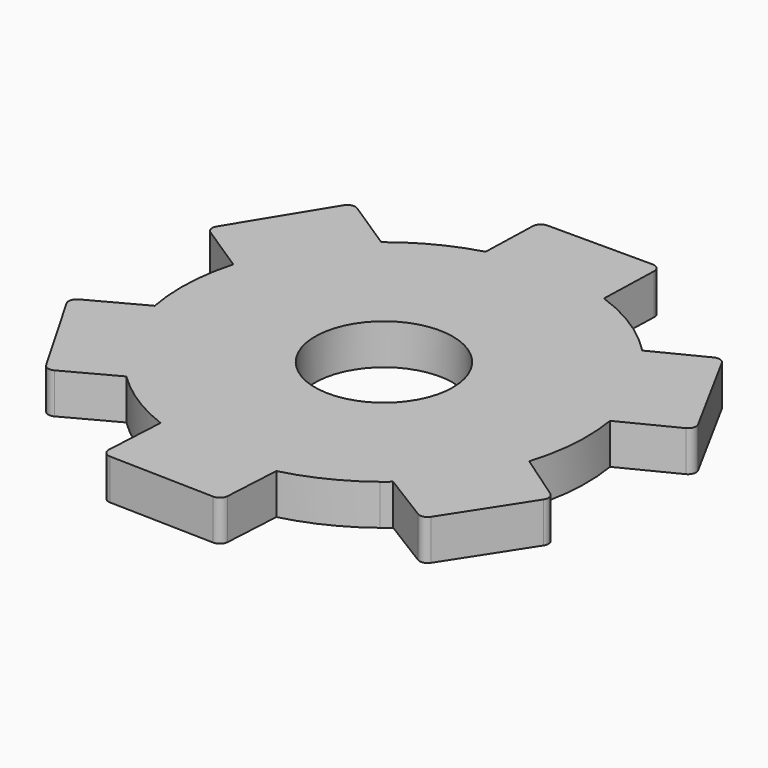
from build123d import *

# Parameters (mm, degrees)
F0_R     = 8.5
F1_DEPTH = 5
F2_R     = 1
F3_R     = 1
F4_R     = 1
F5_R     = 1
F6_R     = 1
F7_R     = 1
F8_R     = 1


with BuildPart() as f1:
    # F0 (on Top) → F1 (new body)
    with BuildSketch(Plane.XY):
        with BuildLine():
            Line((-6.479281, 36.091168), (-6.720968, 28.09482))
            ThreePointArc((-6.720968, 28.09482), (-11.514328, 26.205734), (-15.818653, 23.374172))
            Line((-15.818653, 23.374172), (-22.920961, 28.017285))
            Line((-22.920961, 28.017285), (-30.745783, 15.219936))
            Line((-30.745783, 15.219936), (-24.049722, 10.842405))
            ThreePointArc((-24.049722, 10.842405), (-24.974739, 5.138761), (-24.565617, -0.624904))
            Line((-24.565617, -0.624904), (-32.038972, -4.643641))
            Line((-32.038972, -4.643641), (-24.538972, -17.634022))
            Line((-24.538972, -17.634022), (-17.493087, -13.845154))
            ThreePointArc((-17.493087, -13.845154), (-13.460411, -17.051783), (-8.856044, -19.363657))
            Line((-8.856044, -19.363657), (-9.325944, -27.835993))
            Line((-9.325944, -27.835993), (5.669297, -28.213812))
            Line((5.669297, -28.213812), (6.112319, -20.226088))
            ThreePointArc((6.112319, -20.226088), (10.95174, -18.458337), (15.326021, -15.736091))
            Line((15.326021, -15.736091), (16.301248, -14.939212))
            Line((16.301248, -14.939212), (23.187839, -19.197642))
            Line((23.187839, -19.197642), (30.453803, -7.960425))
            Line((30.453803, -7.960425), (23.870128, -3.415624))
            ThreePointArc((23.870128, -3.415624), (24.938515, 2.262912), (24.674697, 8.035054))
            Line((24.674697, 8.035054), (32.246905, 11.864276))
            Line((32.246905, 11.864276), (25.076486, 25.039446))
            Line((25.076486, 25.039446), (17.937403, 21.429252))
            ThreePointArc((17.937403, 21.429252), (13.460411, 25.082162), (8.264369, 27.609685))
            Line((8.264369, 27.609685), (8.520719, 36.091168))
            Line((8.520719, 36.091168), (-6.479281, 36.091168))
        make_face()
        with Locations((0, 4.01519)):
            Circle(F0_R, mode=Mode.SUBTRACT)
    extrude(amount=F1_DEPTH)

    # F2
    f2_edges = [f1.edges().sort_by_distance(p)[0] for p in [
        (-24.538972, -17.634022, 2.5),
        (-32.038972, -4.643641, 2.5),
    ]]
    fillet(f2_edges, radius=F2_R)

    # F3
    f3_edges = [f1.edges().sort_by_distance(p)[0] for p in [
        (-9.325944, -27.835993, 2.5),
    ]]
    fillet(f3_edges, radius=F3_R)

    # F4
    f4_edges = [f1.edges().sort_by_distance(p)[0] for p in [
        (-22.920961, 28.017285, 2.5),
    ]]
    fillet(f4_edges, radius=F4_R)

    # F5
    f5_edges = [f1.edges().sort_by_distance(p)[0] for p in [
        (-30.745783, 15.219936, 2.5),
    ]]
    fillet(f5_edges, radius=F5_R)

    # F6
    f6_edges = [f1.edges().sort_by_distance(p)[0] for p in [
        (5.669297, -28.213812, 2.5),
    ]]
    fillet(f6_edges, radius=F6_R)

    # F7
    f7_edges = [f1.edges().sort_by_distance(p)[0] for p in [
        (23.187839, -19.197642, 2.5),
        (30.453803, -7.960425, 2.5),
        (32.246905, 11.864276, 2.5),
    ]]
    fillet(f7_edges, radius=F7_R)

    # F8
    f8_edges = [f1.edges().sort_by_distance(p)[0] for p in [
        (25.076486, 25.039446, 2.5),
        (8.520719, 36.091168, 2.5),
        (-6.479281, 36.091168, 2.5),
    ]]
    fillet(f8_edges, radius=F8_R)


solid = f1.part
